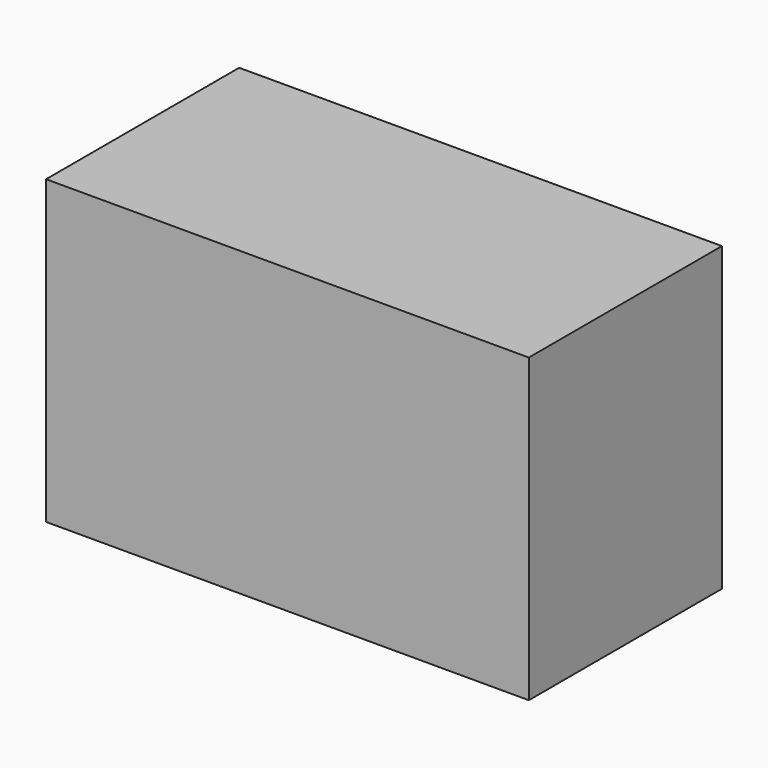
from build123d import *

# Parameters (mm, degrees)
BOX015_W     = 3.25
BOX015_H     = 3
BOX015_DEPTH = 4
BOX014_W     = 3.25
BOX014_H     = 3
BOX014_DEPTH = 4
BOX013_W     = 8
BOX013_H     = 4
BOX013_DEPTH = 5


with BuildPart() as cubo015:
    # Box015 → Box015 (new body)
    with BuildSketch(Plane(origin=(10.25, 2.5, -5), x_dir=(1, 0, 0), z_dir=(0, 0, 1))):
        with Locations((1.625, 1.5)):
            Rectangle(BOX015_W, BOX015_H)
    extrude(amount=BOX015_DEPTH)


with BuildPart() as cubo014:
    # Box014 → Box014 (new body)
    with BuildSketch(Plane(origin=(6.5, 2.5, -5), x_dir=(1, 0, 0), z_dir=(0, 0, 1))):
        with Locations((1.625, 1.5)):
            Rectangle(BOX014_W, BOX014_H)
    extrude(amount=BOX014_DEPTH)


with BuildPart() as obj1:
    # Box013 → Box013 (new body)
    with BuildSketch(Plane(origin=(6, 2, -5), x_dir=(1, 0, 0), z_dir=(0, 0, 1))):
        with Locations((4, 2)):
            Rectangle(BOX013_W, BOX013_H)
    extrude(amount=BOX013_DEPTH)

    # Cut009: cut Cubo014
    add(cubo014.part, mode=Mode.SUBTRACT)

    # Cut010: cut Cubo015
    add(cubo015.part, mode=Mode.SUBTRACT)


with BuildPart() as obj1_1:
    # Cut010 placement: moved
    add(obj1.part.moved(Location((0, 0, 0.4))))


solid = obj1_1.part
